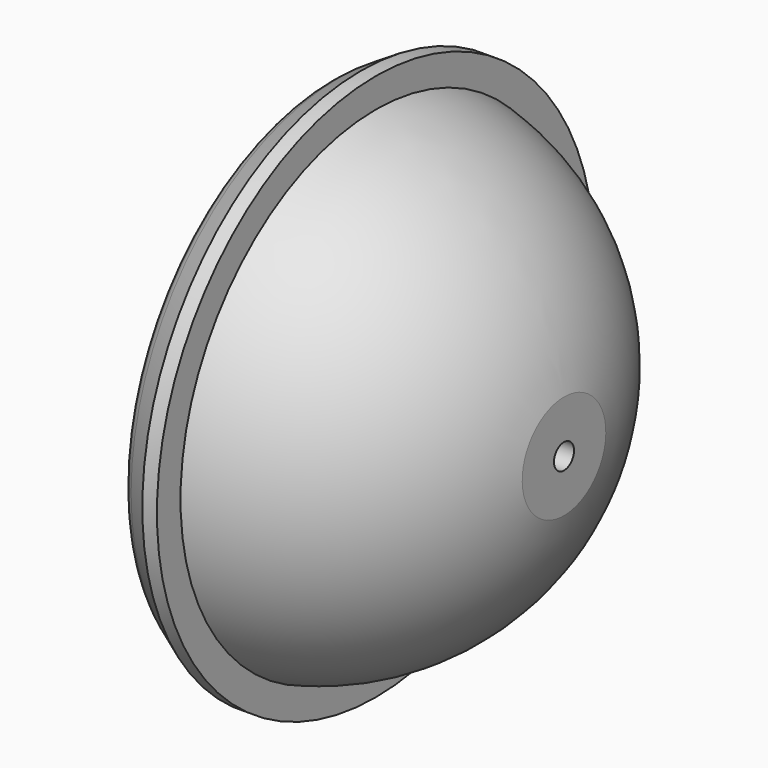
from build123d import *

# Parameters (mm, degrees)
F3_R     = 3.175
F4_DEPTH = 25.4
F3_R_2   = 13.462
F5_DEPTH = 9.017


with BuildPart() as f1:
    # F0 (on Front) → F1 (revolve)
    with BuildSketch(Plane.XZ):
        with BuildLine():
            Line((57.15, 0), (63.5, 0))
            ThreePointArc((63.5, 0), (49.7246437823, 39.4931614425), (14.3752818669, 61.8514451832))
            ThreePointArc((14.3752818669, 61.8514451832), (14.545447186, 61.0073776147), (14.6025029863, 60.1482205093))
            ThreePointArc((14.6025029863, 60.1482205093), (14.1437492907, 57.7501426695), (12.8322714456, 55.6907111604))
            ThreePointArc((12.8322714456, 55.6907111604), (20.1907637916, 53.46452616), (27.1838868177, 50.270854354))
            ThreePointArc((27.1838868177, 50.270854354), (49.0901295152, 29.2622911643), (57.15, 0))
        make_face()
        with BuildLine():
            ThreePointArc((14.6025029863, 60.1482205093), (14.545447186, 61.0073776147), (14.3752818669, 61.8514451832))
            ThreePointArc((14.3752818669, 61.8514451832), (8.4803191689, 62.9311861226), (2.5098197969, 63.4503806497))
            ThreePointArc((2.5098197969, 63.4503806497), (1.6097384582, 60.2943080474), (2.3670190255, 57.1009607707))
            ThreePointArc((2.3670190255, 57.1009607707), (7.632287252, 56.6380675103), (12.8322714456, 55.6907111604))
            ThreePointArc((12.8322714456, 55.6907111604), (14.1437492907, 57.7501426695), (14.6025029863, 60.1482205093))
        make_face()
        with BuildLine():
            ThreePointArc((12.8322714456, 55.6907111604), (7.632287252, 56.6380675103), (2.3670190255, 57.1009607707))
            ThreePointArc((2.3670190255, 57.1009607707), (5.5979999661, 54.1542983084), (9.9647443416, 53.9227792702))
            ThreePointArc((9.9647443416, 53.9227792702), (11.5150820885, 54.6176657234), (12.8322714456, 55.6907111604))
        make_face()
        with BuildLine():
            ThreePointArc((5.0834796416, 65.8999384363), (10.7005286229, 66.1045985568), (14.3752818669, 61.8514451832))
            Line((14.3752818669, 61.8514451832), (14.3752818669, 69.3246647716))
            Line((14.3752818669, 69.3246647716), (10.6675541028, 69.3246647716))
            Line((10.6675541028, 69.3246647716), (5.0834796416, 65.8999384363))
        make_face()
        with BuildLine():
            ThreePointArc((2.5098197969, 63.4503806497), (8.4803191689, 62.9311861226), (14.3752818669, 61.8514451832))
            ThreePointArc((14.3752818669, 61.8514451832), (10.7005286229, 66.1045985568), (5.0834796416, 65.8999384363))
            ThreePointArc((5.0834796416, 65.8999384363), (3.6259528632, 64.8545044217), (2.5098197969, 63.4503806497))
        make_face()
    revolve(axis=Axis((31.75, 0, 0), (1, 0, 0)))

    # F3 (on offset) → F4 (cut)
    with BuildSketch(Plane.YZ.offset(71.12)):
        Circle(F3_R)
    extrude(amount=-F4_DEPTH, mode=Mode.SUBTRACT)

    # F3 (on offset) → F5 (cut)
    with BuildSketch(Plane.YZ.offset(71.12)):
        Circle(F3_R_2)
        Circle(F3_R, mode=Mode.SUBTRACT)
    extrude(amount=-F5_DEPTH, mode=Mode.SUBTRACT)


solid = f1.part
